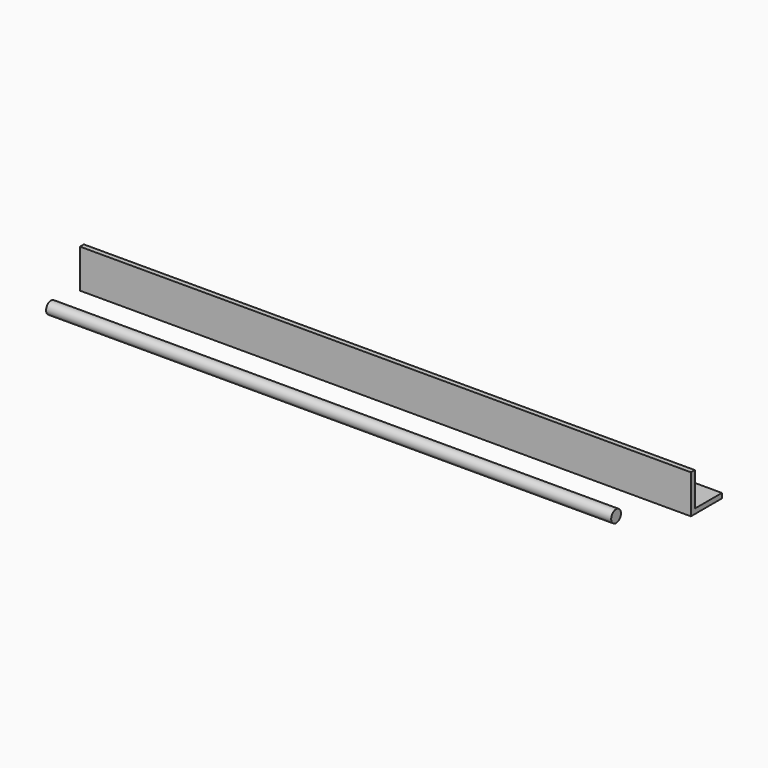
from build123d import *

# Parameters (mm, degrees)
F0_R     = 4
F1_DEPTH = 370
F3_DEPTH = 400


with BuildPart() as f1:
    # F0 (on Right) → F1 (new body)
    with BuildSketch(Plane.YZ):
        Circle(F0_R)
    extrude(amount=F1_DEPTH)


with BuildPart() as f3:
    # F2 (on Right) → F3 (new body)
    with BuildSketch(Plane.YZ):
        Polygon((23.718787, 25.4), (23.718787, 0), (49.118787, 0), (49.118787, 3.175), (26.893787, 3.175), (26.893787, 25.4), align=None)
    extrude(amount=F3_DEPTH)


solid = Compound([f1.part, f3.part])
